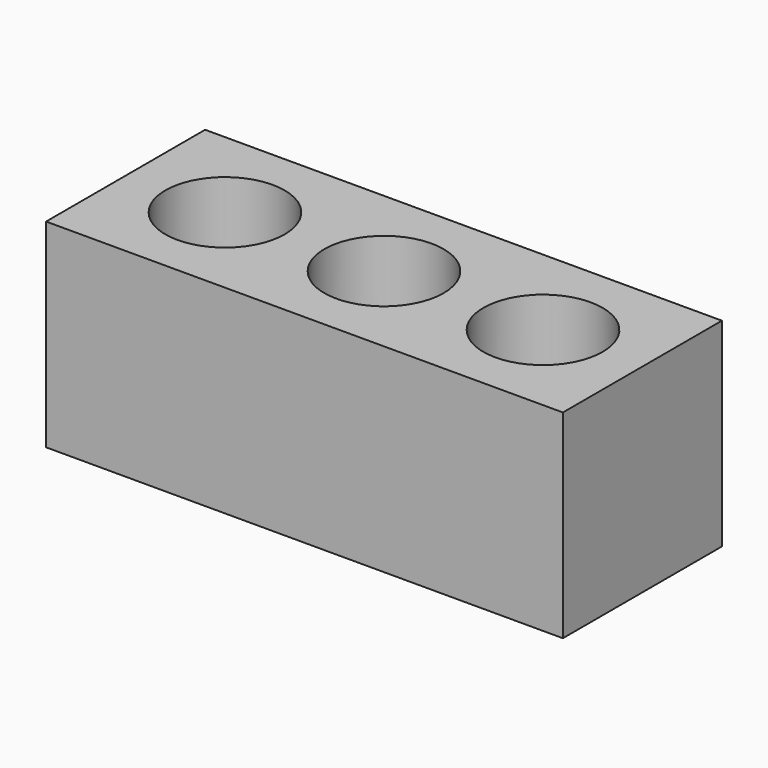
from build123d import *

# Parameters (mm, degrees)
F0_W     = 41.275
F0_H     = 15.875
F0_R     = 4.7625
F1_DEPTH = 15.875
F2_ANGLE = 90


with BuildPart() as f1:
    # F0 (on Front) → F1 (new body)
    with BuildSketch(Plane.XZ):
        Rectangle(F0_W, F0_H)
        with Locations((-12.7, 0)):
            Circle(F0_R, mode=Mode.SUBTRACT)
        Circle(F0_R, mode=Mode.SUBTRACT)
        with Locations((12.7, 0)):
            Circle(F0_R, mode=Mode.SUBTRACT)
    extrude(amount=-F1_DEPTH)


with BuildPart() as f1_1:
    # F2: moved
    add(f1.part.rotate(Axis((6.35, 0, 0), (1, 0, 0)), F2_ANGLE))


solid = f1_1.part
